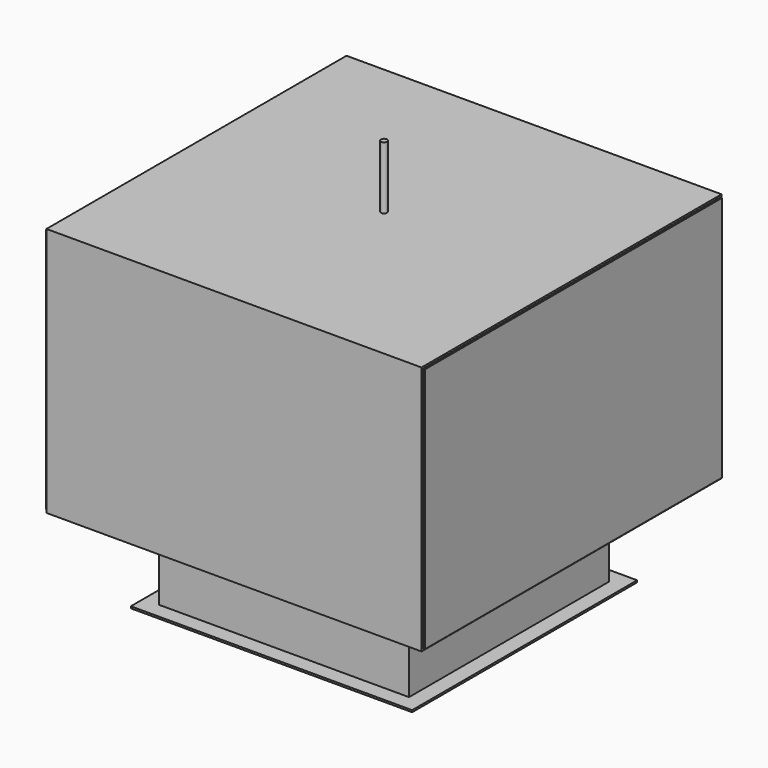
from build123d import *

# Parameters (mm, degrees)
F0_W      = 304.8
F0_H      = 203.2
F0_W_2    = 301.752
F0_H_2    = 200.152
F1_DEPTH  = 152.4
F3_DEPTH  = 150.876
F4_R      = 76.2
F5_DEPTH  = 1.524
F6_W      = 203.2
F6_H      = 203.2
F6_W_2    = 200.152
F6_H_2    = 200.152
F7_DEPTH  = 69.85
F8_W      = 228.6
F8_H      = 228.6
F8_W_2    = 200.152
F8_H_2    = 200.152
F9_DEPTH  = 1.524
F10_W     = 134.1371834278
F10_H     = 75.3432884812
F11_DEPTH = 1.524
F12_W     = 140.2331834278
F12_H     = 81.4392884812
F12_W_2   = 137.1851834278
F12_H_2   = 78.3912884812
F13_DEPTH = 50.8
F14_W     = 140.2331834278
F14_H     = 81.4392884812
F15_DEPTH = 1.524
F16_W     = 6.4386419525
F16_H     = 1.6890700208
F17_DEPTH = 1.524
F18_W     = 2.54
F18_H     = 381


with BuildPart() as f1:
    # F0 (on Right) → F1 (new body, symmetric)
    with BuildSketch(Plane.YZ):
        Rectangle(F0_W, F0_H)
        Rectangle(F0_W_2, F0_H_2, mode=Mode.SUBTRACT)
    extrude(amount=F1_DEPTH, both=True)

    # F4 (on face) → F5 (cut, through all)
    with BuildSketch(Plane(origin=(0, 0, -101.6), x_dir=(1, 0, 0), z_dir=(0, 0, -1))):
        Circle(F4_R)
    extrude(amount=-F5_DEPTH, mode=Mode.SUBTRACT)

    # F6 (on face) → F7 (join)
    with BuildSketch(Plane(origin=(0, 0, -101.6), x_dir=(1, 0, 0), z_dir=(0, 0, -1))):
        Rectangle(F6_W, F6_H)
        Rectangle(F6_W_2, F6_H_2, mode=Mode.SUBTRACT)
    extrude(amount=F7_DEPTH)

    # F8 (on face) → F9 (join)
    with BuildSketch(Plane(origin=(0, 0, -171.45), x_dir=(1, 0, 0), z_dir=(0, 0, -1))):
        Rectangle(F8_W, F8_H)
        Rectangle(F8_W_2, F8_H_2, mode=Mode.SUBTRACT)
    extrude(amount=F9_DEPTH)

    # F10 (on face) → F11 (cut, through all)
    with BuildSketch(Plane(origin=(0, 152.4, 0), x_dir=(-1, 0, 0), z_dir=(0, 1, 0))):
        Rectangle(F10_W, F10_H)
    extrude(amount=-F11_DEPTH, mode=Mode.SUBTRACT)

    # F12 (on face) → F13 (join)
    with BuildSketch(Plane(origin=(0, 152.4, 0), x_dir=(-1, 0, 0), z_dir=(0, 1, 0))):
        Rectangle(F12_W, F12_H)
        Rectangle(F12_W_2, F12_H_2, mode=Mode.SUBTRACT)
    extrude(amount=F13_DEPTH)

    # F14 (on face) → F15 (join)
    with BuildSketch(Plane(origin=(0, 203.2, 0), x_dir=(-1, 0, 0), z_dir=(0, 1, 0))):
        Rectangle(F14_W, F14_H)
    extrude(amount=F15_DEPTH)

    # F16 (on face) → F17 (cut, through all)
    with BuildSketch(Plane.YZ.offset(70.1165917139)):
        with BuildLine():
            Line((186.4165162168, 1.524), (187.9642895616, 1.524))
            ThreePointArc((187.9642895616, 1.524), (169.037, 0), (187.9642895616, -1.524))
            Line((187.9642895616, -1.524), (186.4165162168, -1.524))
            ThreePointArc((186.4165162168, -1.524), (170.561, 0), (186.4165162168, 1.524))
        make_face()
        with Locations((178.562, 0)):
            Rectangle(F16_W, F16_H)
    extrude(amount=-F17_DEPTH, mode=Mode.SUBTRACT)


with BuildPart() as f3:
    # F2 (on Front) → F3 (new body, symmetric)
    with BuildSketch(Plane.XZ):
        Polygon((-143.764, 98.552), (-143.764, 100.076), (-153.924, 100.076), (-153.924, -100.076), (-143.764, -100.076), (-143.764, -98.552), (-152.4, -98.552), (-152.4, 98.552), align=None)
    extrude(amount=F3_DEPTH, both=True)


with BuildPart() as f3b:
    # F2 (on Front) → F3, piece 2 (new body, symmetric)
    with BuildSketch(Plane.XZ):
        Polygon((143.764, 100.076), (143.764, 98.552), (152.4, 98.552), (152.4, -98.552), (143.764, -98.552), (143.764, -100.076), (153.924, -100.076), (153.924, 100.076), align=None)
    extrude(amount=F3_DEPTH, both=True)


with BuildPart() as f19:
    # F18 (on Right) → F19 (revolve)
    with BuildSketch(Plane.YZ):
        with Locations((1.27, -38.1)):
            Rectangle(F18_W, F18_H)
    revolve(axis=Axis((0, 0, -38.1), (0, 0, -1)))


solid = Compound([f1.part, f3.part, f3b.part, f19.part])
